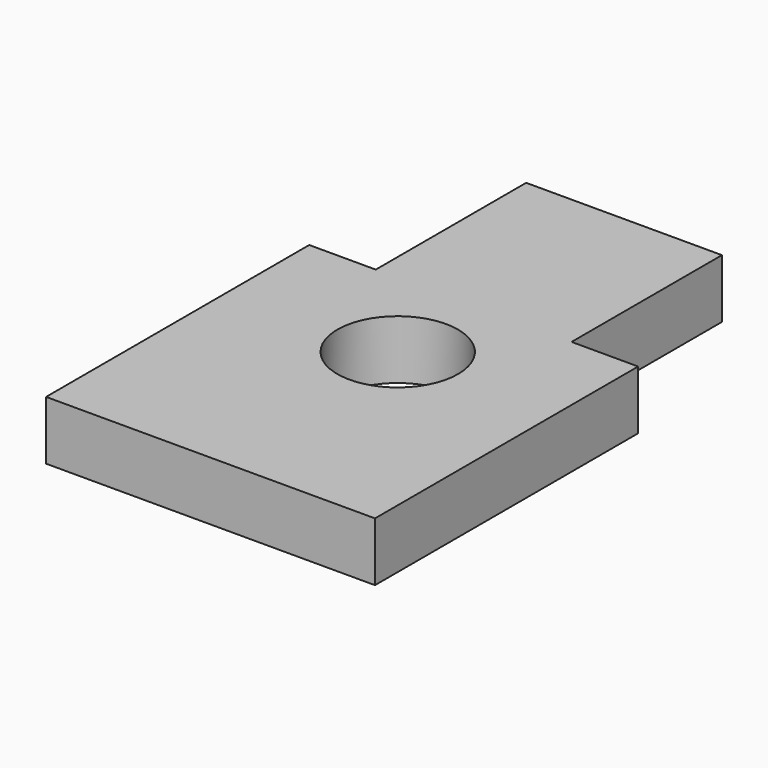
from build123d import *

# Parameters (mm, degrees)
F0_R     = 4.1
F1_DEPTH = 4


with BuildPart() as f1:
    # F0 (on Top) → F1 (new body)
    with BuildSketch(Plane.XY):
        Polygon((-22.363636, 0), (0, 0), (0, 22.363636), (-4.525974, 22.363636), (-4.525974, 35.142857), (-17.837662, 35.142857), (-17.837662, 22.363636), (-22.363636, 22.363636), align=None)
        with Locations((-11.022078, 15.707792)):
            Circle(F0_R, mode=Mode.SUBTRACT)
    extrude(amount=F1_DEPTH)


solid = f1.part
